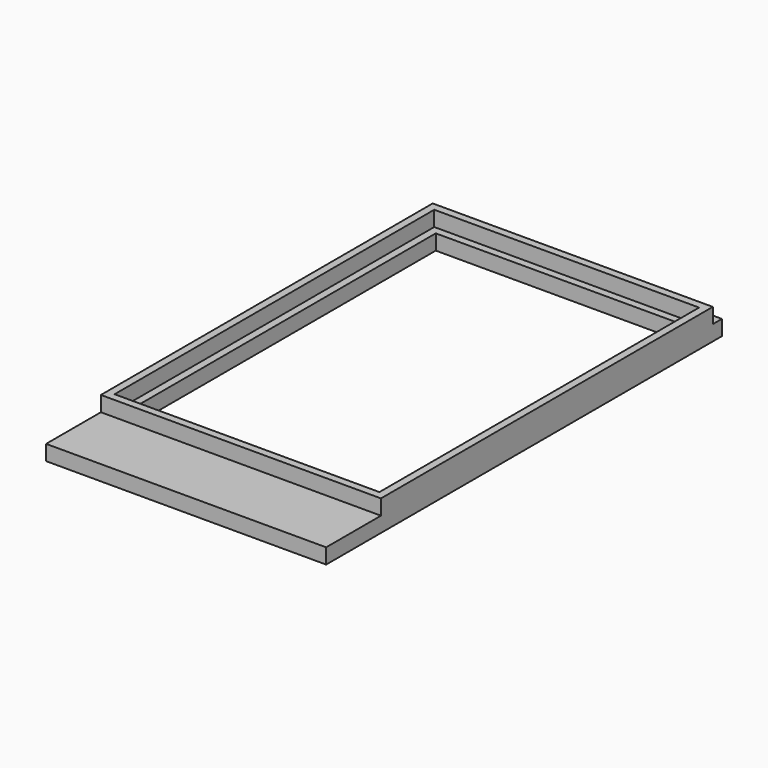
from build123d import *

# Parameters (mm, degrees)
F0_W     = 36.8
F0_H     = 54.5
F0_W_2   = 34.8
F0_H_2   = 52.5
F0_H_3   = 1.5
F0_H_4   = 9
F0_W_3   = 32.8
F0_H_5   = 50.5
F1_DEPTH = 2
F2_DEPTH = 4


with BuildPart() as f1:
    # F0 (on Top) → F1 (new body)
    with BuildSketch(Plane.XY):
        Rectangle(F0_W, F0_H)
        Rectangle(F0_W_2, F0_H_2, mode=Mode.SUBTRACT)
        with Locations((0, 28)):
            Rectangle(F0_W, F0_H_3)
        with Locations((0, -31.75)):
            Rectangle(F0_W, F0_H_4)
        Rectangle(F0_W_2, F0_H_2)
        Rectangle(F0_W_3, F0_H_5, mode=Mode.SUBTRACT)
    extrude(amount=F1_DEPTH)

    # F0 (on Top) → F2 (join)
    with BuildSketch(Plane.XY):
        Rectangle(F0_W, F0_H)
        Rectangle(F0_W_2, F0_H_2, mode=Mode.SUBTRACT)
    extrude(amount=F2_DEPTH)


solid = f1.part
